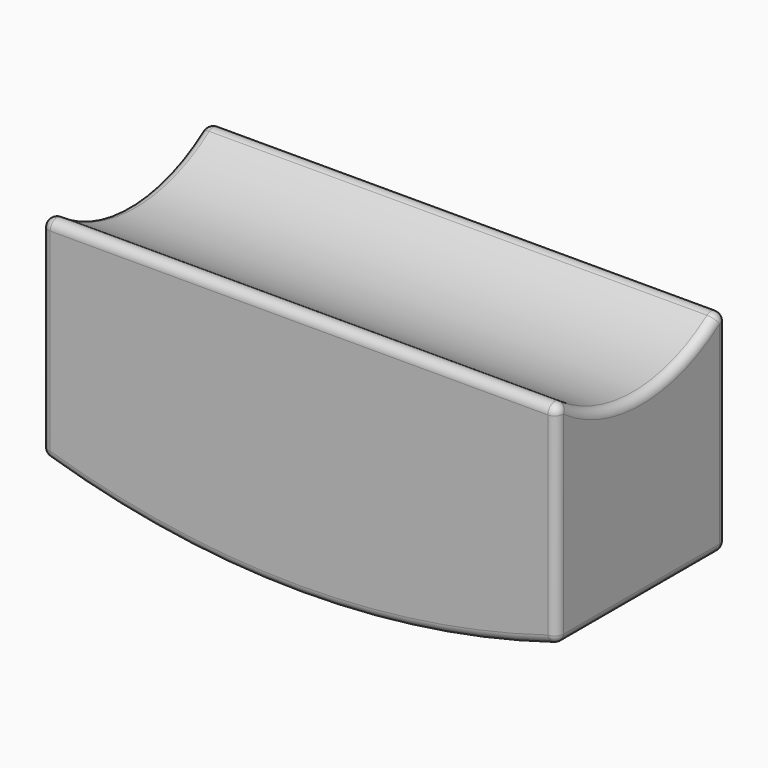
from build123d import *

# Parameters (mm, degrees)
F1_DEPTH = 24.75
F3_DEPTH = 120
F4_R     = 2


with BuildPart() as f1:
    # F0 (on Front) → F1 (new body, symmetric)
    with BuildSketch(Plane.XZ):
        with BuildLine():
            Line((60, 70.4049621774), (-60, 70.4049621774))
            Line((-60, 70.4049621774), (-60, 19.617121894))
            ThreePointArc((-60, 19.617121894), (0, 10.4049621774), (60, 19.617121894))
            Line((60, 19.617121894), (60, 70.4049621774))
        make_face()
    extrude(amount=F1_DEPTH, both=True)

    # F2 (on face) → F3 (cut)
    with BuildSketch(Plane.YZ.offset(60)):
        with BuildLine():
            Line((24.75, 70.4049621774), (-24.75, 70.4049621774))
            ThreePointArc((-24.75, 70.4049621774), (0, 60.908371057), (24.75, 70.4049621774))
        make_face()
    extrude(amount=-F3_DEPTH, mode=Mode.SUBTRACT)

    # F4
    f4_edges = [f1.edges().sort_by_distance(p)[0] for p in [
        (0, -24.75, 70.404962),
        (0, 24.75, 70.404962),
        (60, 0, 60.908371),
        (60, -24.75, 45.011042),
        (60, 24.75, 45.011042),
        (60, 0, 19.617122),
        (-60, 0, 60.908371),
        (-60, -24.75, 45.011042),
        (-60, 24.75, 45.011042),
        (-60, 0, 19.617122),
        (0, -24.75, 10.404962),
        (0, 24.75, 10.404962),
    ]]
    fillet(f4_edges, radius=F4_R)


solid = f1.part
